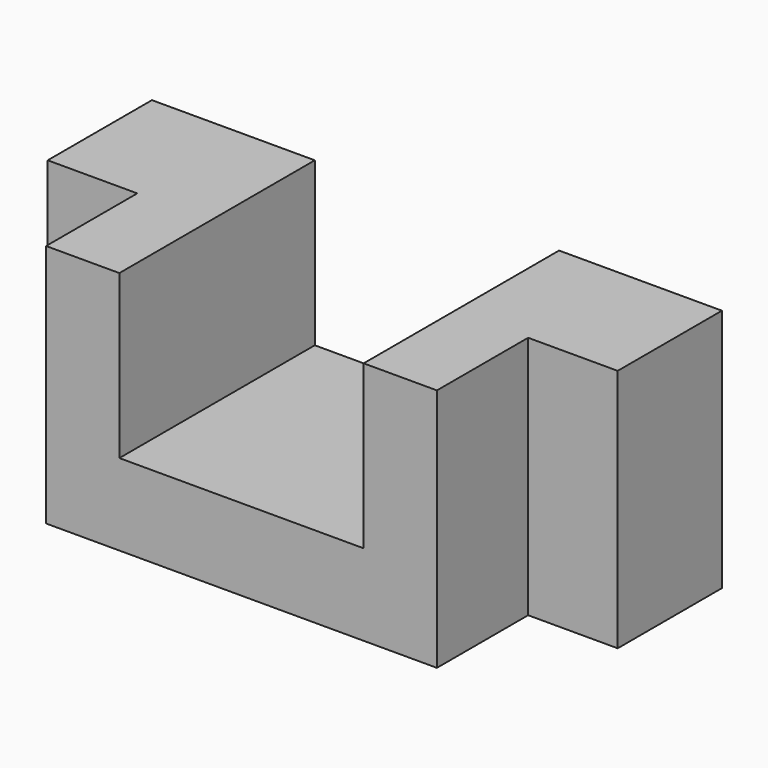
from build123d import *

# Parameters (mm, degrees)
F1_DEPTH = 30
F2_W     = 30
F2_H     = 20
F3_DEPTH = 30


with BuildPart() as f1:
    # F0 (on Top) → F1 (new body)
    with BuildSketch(Plane.XY):
        Polygon((35, 16), (-35, 16), (-35, 0), (-24, 0), (-24, -14), (24, -14), (24, 0), (35, 0), align=None)
    extrude(amount=F1_DEPTH)

    # F2 (on face) → F3 (cut)
    with BuildSketch(Plane.XZ.offset(14)):
        with Locations((0, 20)):
            Rectangle(F2_W, F2_H)
    extrude(amount=-F3_DEPTH, mode=Mode.SUBTRACT)


solid = f1.part
